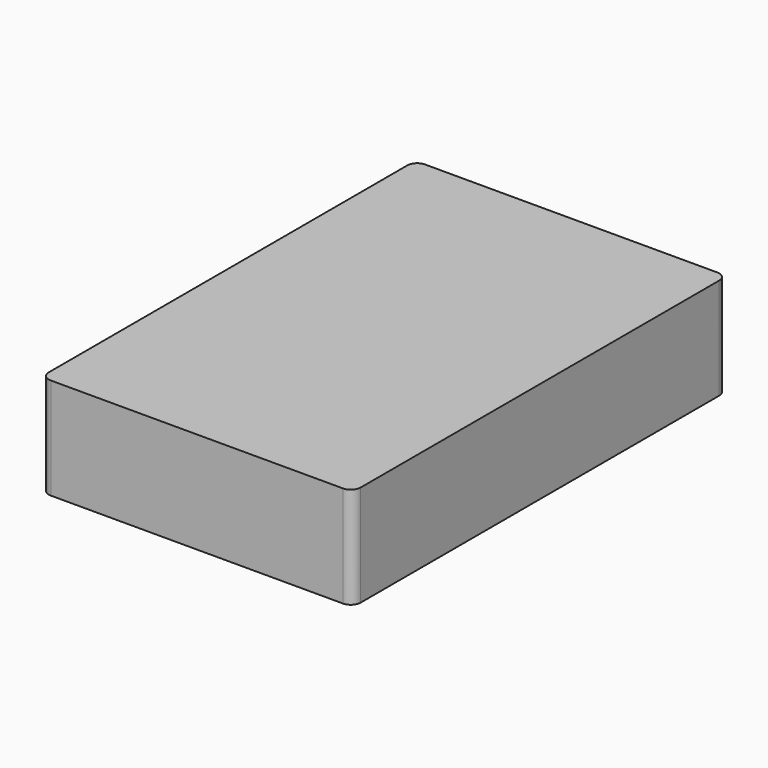
from build123d import *

# Parameters (mm, degrees)
PAD_DEPTH = 82.55


with BuildPart() as part:
    # Sketch → Pad (new body)
    with BuildSketch(Plane.XY):
        with BuildLine():
            ThreePointArc((-119, 190.5), (-124.656854, 188.156854), (-127, 182.5))
            Line((-127, -182.5), (-127, 182.5))
            ThreePointArc((-127, -182.5), (-124.656854, -188.156854), (-119, -190.5))
            Line((119, -190.5), (-119, -190.5))
            ThreePointArc((119, -190.5), (124.656854, -188.156854), (127, -182.5))
            Line((127, 182.5), (127, -182.5))
            ThreePointArc((127, 182.5), (124.656854, 188.156854), (119, 190.5))
            Line((-119, 190.5), (119, 190.5))
        make_face()
    extrude(amount=PAD_DEPTH)


solid = part.part
